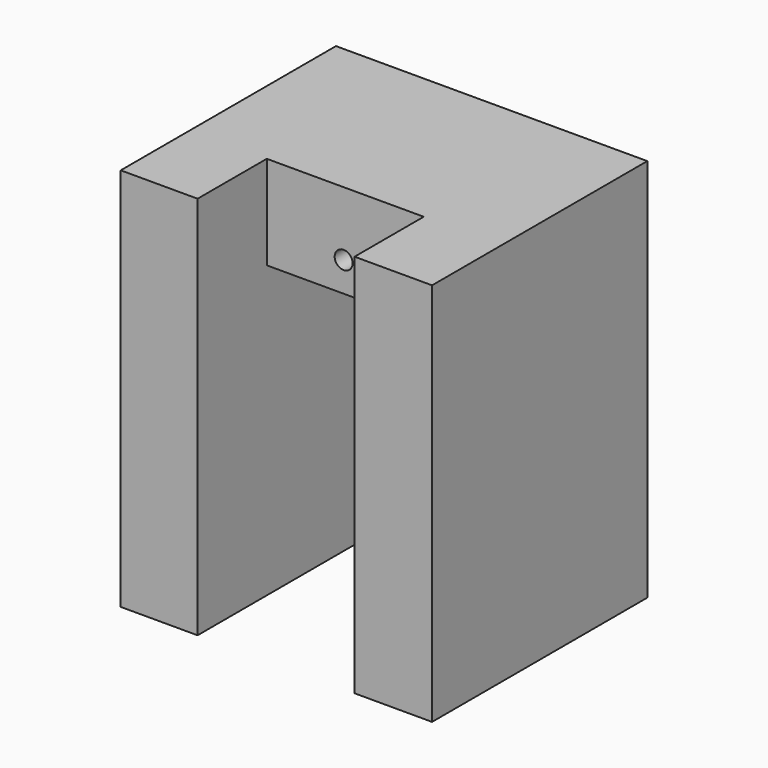
from build123d import *

# Parameters (mm, degrees)
CYLINDER008_R     = 3
CYLINDER008_DEPTH = 1.1
CYLINDER007_R     = 3
CYLINDER007_DEPTH = 1.1
CYLINDER004_R     = 2.4
CYLINDER004_DEPTH = 13
CYLINDER005_R     = 2.7
CYLINDER005_DEPTH = 1
CYLINDER006_R     = 2.7
CYLINDER006_DEPTH = 1
CYLINDER003_R     = 2.4
CYLINDER003_DEPTH = 13
CYLINDER002_R     = 0.7
CYLINDER002_DEPTH = 16
BOX007_W          = 12.25
BOX007_H          = 10
BOX007_DEPTH      = 10
BOX003_W          = 12.25
BOX003_H          = 23.78
BOX003_DEPTH      = 22.68
BOX008_W          = 24.3
BOX008_H          = 21
BOX008_DEPTH      = 30


with BuildPart() as cylinder008:
    # Cylinder008 → Cylinder008 (new body)
    with BuildSketch(Plane(origin=(-2.5, 17.5, -0.1), x_dir=(1, 0, 0), z_dir=(0, 0, 1))):
        Circle(CYLINDER008_R)
    extrude(amount=CYLINDER008_DEPTH)


with BuildPart() as fusion005:
    # Cylinder007 → Cylinder007 (new body)
    with BuildSketch(Plane(origin=(14.74, 17.5, -0.1), x_dir=(1, 0, 0), z_dir=(0, 0, 1))):
        Circle(CYLINDER007_R)
    extrude(amount=CYLINDER007_DEPTH)

    # Fusion005: union Cylinder008
    add(cylinder008.part)


with BuildPart() as cylinder004:
    # Cylinder004 → Cylinder004 (new body)
    with BuildSketch(Plane(origin=(14.74, 17.5, -6.5), x_dir=(1, 0, 0), z_dir=(0, 0, 1))):
        Circle(CYLINDER004_R)
    extrude(amount=CYLINDER004_DEPTH)


with BuildPart() as cylinder005:
    # Cylinder005 → Cylinder005 (new body)
    with BuildSketch(Plane(origin=(-2.5, 17.5, 6.5), x_dir=(1, 0, 0), z_dir=(0, 0, 1))):
        Circle(CYLINDER005_R)
    extrude(amount=CYLINDER005_DEPTH)


with BuildPart() as cylinder006:
    # Cylinder006 → Cylinder006 (new body)
    with BuildSketch(Plane(origin=(14.74, 17.5, 6.5), x_dir=(1, 0, 0), z_dir=(0, 0, 1))):
        Circle(CYLINDER006_R)
    extrude(amount=CYLINDER006_DEPTH)


with BuildPart() as fusion006:
    # Cylinder003 → Cylinder003 (new body)
    with BuildSketch(Plane(origin=(-2.5, 17.5, -6.5), x_dir=(1, 0, 0), z_dir=(0, 0, 1))):
        Circle(CYLINDER003_R)
    extrude(amount=CYLINDER003_DEPTH)

    # Fusion004: union Cylinder004, Cylinder005, Cylinder006
    add(cylinder004.part)
    add(cylinder005.part)
    add(cylinder006.part)


with BuildPart() as fusion006_1:
    # Fusion004 placement: moved
    add(fusion006.part.moved(Location((0, 0, 1))))

    # Fusion006: union Fusion005
    add(fusion005.part)


with BuildPart() as cylinder002:
    # Cylinder002 → Cylinder002 (new body)
    with BuildSketch(Plane(origin=(6, 22, 25), x_dir=(1, 0, 0), z_dir=(0, -1, 0))):
        Circle(CYLINDER002_R)
    extrude(amount=CYLINDER002_DEPTH)


with BuildPart() as cube004:
    # Box007 → Box007 (new body)
    with BuildSketch(Plane(origin=(0, -3.25, 22), x_dir=(1, 0, 0), z_dir=(0, 0, 1))):
        with Locations((6.125, 5)):
            Rectangle(BOX007_W, BOX007_H)
    extrude(amount=BOX007_DEPTH)


with BuildPart() as servo002:
    # Box003 → Box003 (new body)
    with BuildSketch(Plane(origin=(0, -1, 0), x_dir=(1, 0, 0), z_dir=(0, 0, 1))):
        with Locations((6.125, 11.89)):
            Rectangle(BOX003_W, BOX003_H)
    extrude(amount=BOX003_DEPTH)

    # Fusion002: union Cube004
    add(cube004.part)


with BuildPart() as fusion003:
    # Fusion003 base: copy of Cube004
    add(cube004.part)

    # Fusion003: union servo002
    add(servo002.part)


with BuildPart() as cut005:
    # Box008 → Box008 (new body)
    with BuildSketch(Plane(origin=(-6, 0, 0), x_dir=(1, 0, 0), z_dir=(0, 0, 1))):
        with Locations((12.15, 10.5)):
            Rectangle(BOX008_W, BOX008_H)
    extrude(amount=BOX008_DEPTH)

    # Cut002: cut Fusion003
    add(fusion003.part, mode=Mode.SUBTRACT)

    # Cut003: cut Cylinder002
    add(cylinder002.part, mode=Mode.SUBTRACT)

    # Cut005: cut Fusion006
    add(fusion006_1.part, mode=Mode.SUBTRACT)


with BuildPart() as cut005_1:
    # Cut005 placement: moved
    add(cut005.part.moved(Location((10, -17.5, 2))))


solid = cut005_1.part
